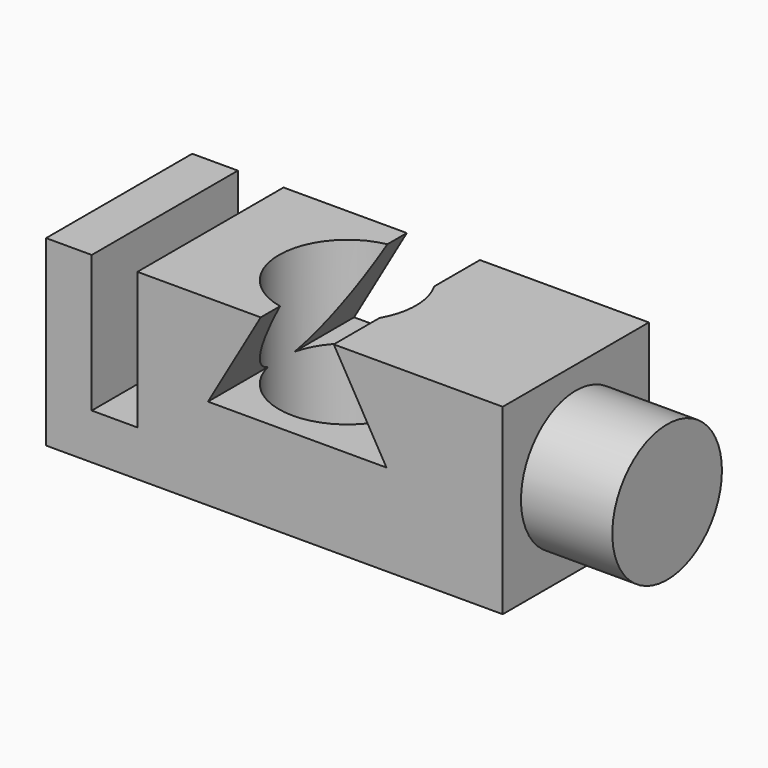
from build123d import *

# Parameters (mm, degrees)
F0_W     = 50
F0_H     = 20
F0_R     = 7.5
F1_DEPTH = 20
F2_W     = 5
F2_H     = 20
F3_DEPTH = 15
F5_DEPTH = 20.001
F6_R     = 7.5
F7_DEPTH = 10


with BuildPart() as f1:
    # F0 (on Top) → F1 (new body)
    with BuildSketch(Plane.XY):
        Rectangle(F0_W, F0_H)
        Circle(F0_R, mode=Mode.SUBTRACT)
    extrude(amount=F1_DEPTH)

    # F2 (on face) → F3 (cut)
    with BuildSketch(Plane.XY.offset(20)):
        with Locations((-17.5, 0)):
            Rectangle(F2_W, F2_H)
    extrude(amount=-F3_DEPTH, mode=Mode.SUBTRACT)

    # F4 (on face) → F5 (cut, through all)
    with BuildSketch(Plane.XZ.offset(10)):
        Polygon((6.5, 20), (-1.5, 20), (-7.273503, 10), (12.273503, 10), align=None)
    extrude(amount=-F5_DEPTH, mode=Mode.SUBTRACT)

    # F6 (on face) → F7 (join)
    with BuildSketch(Plane.YZ.offset(25)):
        with Locations((0, 10)):
            Circle(F6_R)
    extrude(amount=F7_DEPTH)


solid = f1.part
